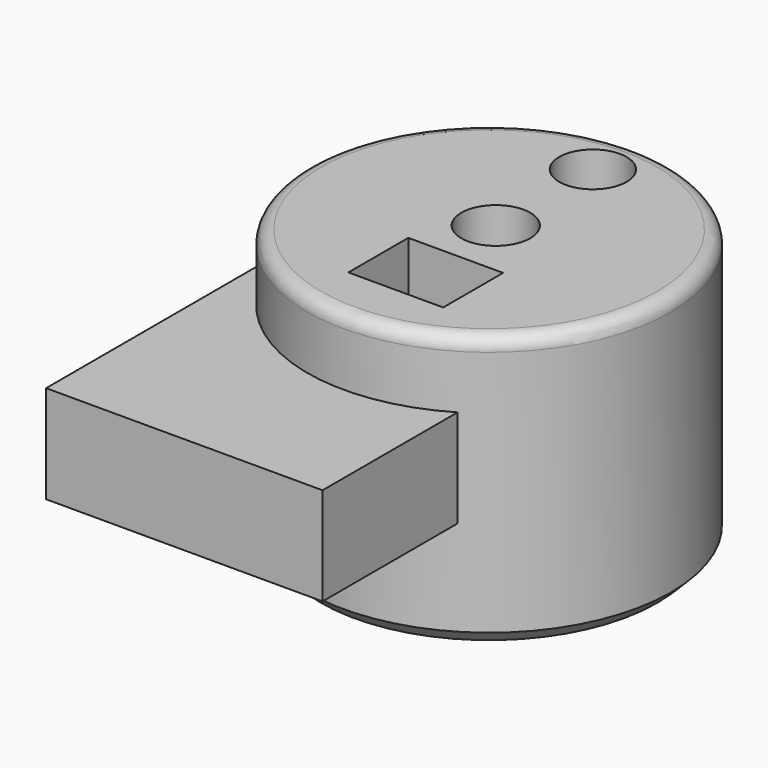
from build123d import *

# Parameters (mm, degrees)
F0_R      = 67.389458
F1_DEPTH  = 101.6
F2_R      = 12.788908
F3_DEPTH  = 161.798
F4_R      = 12.50156
F5_DEPTH  = 121.666
F6_R      = 5.08
F7_SIZE   = 5.08
F8_W      = 35.13822
F8_H      = 27.752711
F9_DEPTH  = 223.266
F10_W     = 102.441065
F10_H     = 36.250696
F11_DEPTH = 25.4
F12_DEPTH = 123.444


with BuildPart() as f1:
    # F0 (on Top) → F1 (new body)
    with BuildSketch(Plane.XY):
        with Locations((0, -3.060437)):
            Circle(F0_R)
    extrude(amount=F1_DEPTH)

    # F2 (on face) → F3 (cut)
    with BuildSketch(Plane.XY.offset(101.6)):
        Circle(F2_R)
    extrude(amount=-F3_DEPTH, mode=Mode.SUBTRACT)

    # F4 (on face) → F5 (cut)
    with BuildSketch(Plane.XY.offset(101.6)):
        with Locations((0, 45.001123)):
            Circle(F4_R)
    extrude(amount=-F5_DEPTH, mode=Mode.SUBTRACT)

    # F6
    f6_edges = [f1.edges().sort_by_distance(p)[0] for p in [
        (-67.389458, -3.060437, 101.6),
    ]]
    fillet(f6_edges, radius=F6_R)

    # F7
    f7_edges = [f1.edges().sort_by_distance(p)[0] for p in [
        (-67.389458, -3.060437, 0),
    ]]
    chamfer(f7_edges, length=F7_SIZE)

    # F8 (on face) → F9 (cut)
    with BuildSketch(Plane(origin=(0, 0, 0), x_dir=(1, 0, 0), z_dir=(0, 0, -1))):
        with Locations((2.640987, 35.737217)):
            Rectangle(F8_W, F8_H)
    extrude(amount=-F9_DEPTH, mode=Mode.SUBTRACT)

    # F10 (on Front) → F11 (join)
    with BuildSketch(Plane.XZ):
        with Locations((-16.654189, 58.523156)):
            Rectangle(F10_W, F10_H)
    extrude(amount=F11_DEPTH)

    # F10 (on Front) → F12 (join)
    with BuildSketch(Plane.XZ):
        with Locations((-16.654189, 58.523156)):
            Rectangle(F10_W, F10_H)
    extrude(amount=F12_DEPTH)


solid = f1.part
